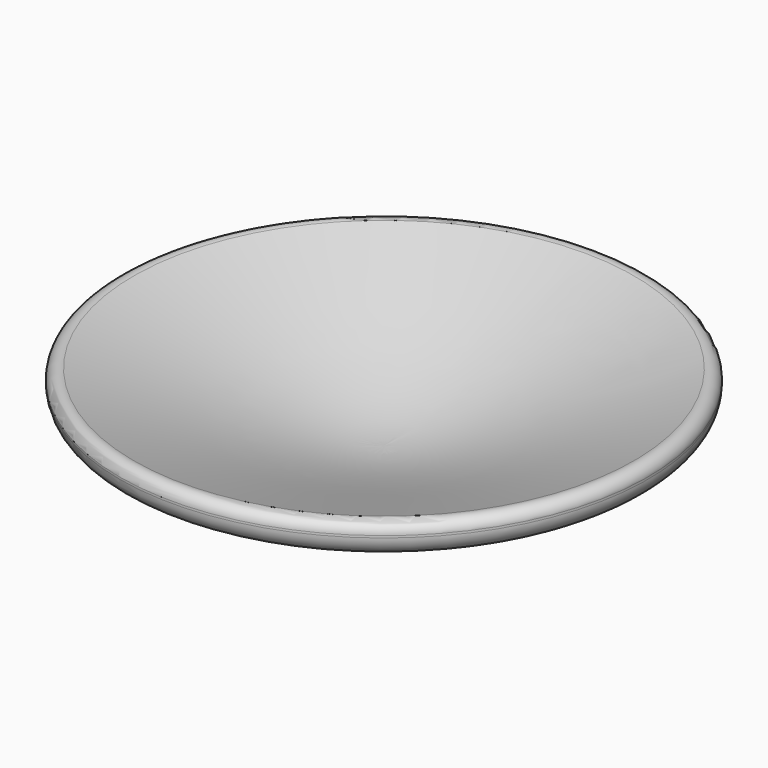
from build123d import *


with BuildPart() as f1:
    # F0 (on Right) → F1 (revolve)
    with BuildSketch(Plane.YZ):
        with BuildLine():
            Line((0, 5.916847), (0, 0))
            Line((0, 0), (11.20279, 0))
            ThreePointArc((11.20279, 0), (12.253548, 0.111656), (13.257377, 0.441637))
            Line((13.257377, 0.441637), (38.232752, 11.698766))
            ThreePointArc((38.232752, 11.698766), (39.519748, 12.805634), (40, 14.433783))
            Line((40, 14.433783), (40, 14.750269))
            ThreePointArc((40, 14.750269), (39.343857, 16.034574), (37.918679, 16.255544))
            add(Edge.make_bspline(
                [(0, 5.916847), (8.502551, 5.589119), (19.45312, 10.166949), (37.918679, 16.255544)],
                knots=[0, 0, 0, 0, 40.009713, 40.009713, 40.009713, 40.009713], degree=3))
        make_face()
    revolve(axis=Axis((0, 0, 20.61951), (0, 0, 1)))


solid = f1.part
